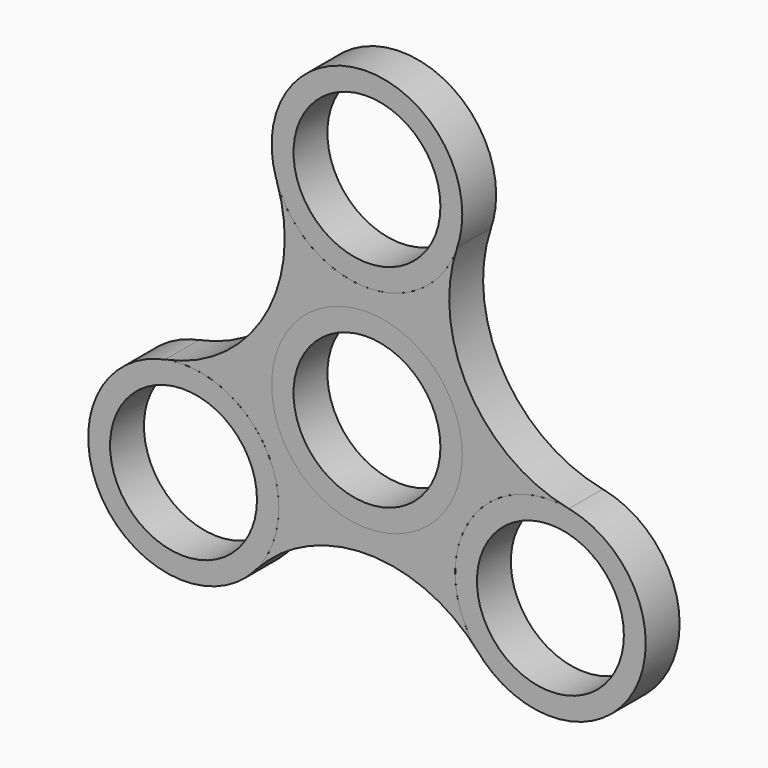
from build123d import *

# Parameters (mm, degrees)
F0_R     = 14.2875
F0_R_2   = 11.0109
F2_DEPTH = 6.35
F1_R     = 14.2875


with BuildPart() as f2:
    # F0 (on Front) → F2 (new body)
    with BuildSketch(Plane.XZ):
        Circle(F0_R)
        Circle(F0_R_2, mode=Mode.SUBTRACT)
    extrude(amount=F2_DEPTH)


with BuildPart() as f2b:
    # F0 (on Front) → F2, piece 2 (new body)
    with BuildSketch(Plane.XZ):
        with Locations((27.4963065702, -15.875)):
            Circle(F0_R)
        with Locations((27.4963065702, -15.875)):
            Circle(F0_R_2, mode=Mode.SUBTRACT)
    extrude(amount=F2_DEPTH)


with BuildPart() as f2c:
    # F0 (on Front) → F2, piece 3 (new body)
    with BuildSketch(Plane.XZ):
        with Locations((-27.4963065702, -15.875)):
            Circle(F0_R)
        with Locations((-27.4963065702, -15.875)):
            Circle(F0_R_2, mode=Mode.SUBTRACT)
    extrude(amount=F2_DEPTH)


with BuildPart() as f2d:
    # F0 (on Front) → F2, piece 4 (new body)
    with BuildSketch(Plane.XZ):
        with Locations((0, 31.75)):
            Circle(F0_R)
        with Locations((0, 31.75)):
            Circle(F0_R_2, mode=Mode.SUBTRACT)
    extrude(amount=F2_DEPTH)


with BuildPart() as f2e:
    # F1 (on Front) → F2, piece 5 (new body)
    with BuildSketch(Plane.XZ):
        with BuildLine():
            ThreePointArc((-13.5206938879, 27.1322632123), (-15.305469781, 8.8366170981), (-30.257576148, -1.8568672225))
            ThreePointArc((-30.257576148, -1.8568672225), (-18.4221394691, -4.8390520266), (-13.2088065702, -15.875))
            ThreePointArc((-13.2088065702, -15.875), (-14.1198733557, -20.8953277493), (-16.7368822601, -25.2753959899))
            ThreePointArc((-16.7368822601, -25.2753959899), (0, -17.6732341963), (16.7368822601, -25.2753959899))
            ThreePointArc((16.7368822601, -25.2753959899), (15.1229686136, -8.73125), (30.257576148, -1.8568672225))
            ThreePointArc((30.257576148, -1.8568672225), (15.305469781, 8.8366170981), (13.5206938879, 27.1322632123))
            ThreePointArc((13.5206938879, 27.1322632123), (0, 17.4625), (-13.5206938879, 27.1322632123))
        make_face()
        Circle(F1_R, mode=Mode.SUBTRACT)
    extrude(amount=F2_DEPTH)


solid = Compound([f2.part, f2b.part, f2c.part, f2d.part, f2e.part])
